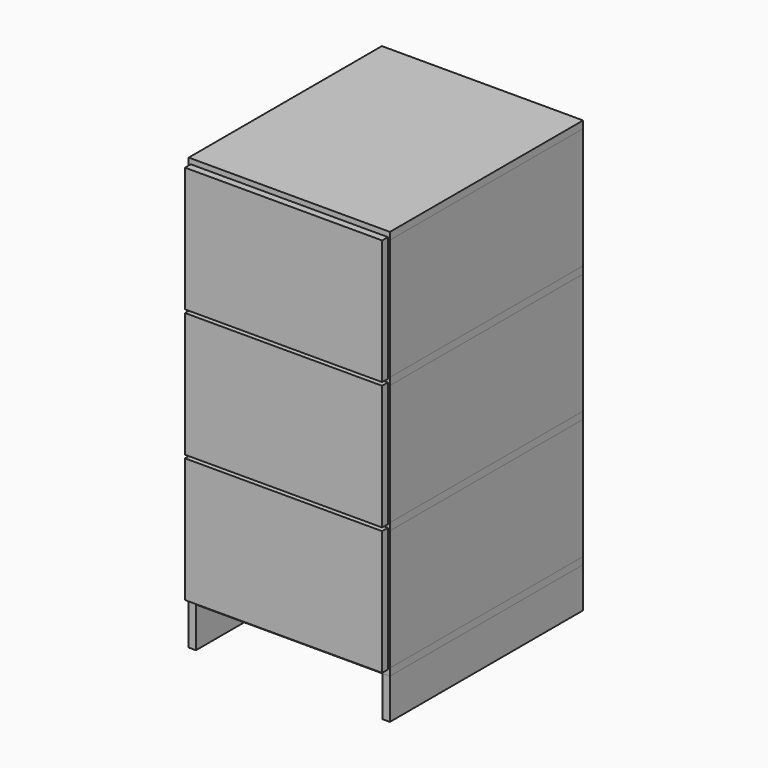
from build123d import *

# Parameters (mm, degrees)
BOX006_W       = 18
BOX006_H       = 600
BOX006_DEPTH   = 100
BOX007_W       = 18
BOX007_H       = 600
BOX007_DEPTH   = 300
BOX008_W       = 18
BOX008_H       = 600
BOX008_DEPTH   = 300
BOX009_W       = 18
BOX009_H       = 600
BOX009_DEPTH   = 300
BOX010_W       = 18
BOX010_H       = 600
BOX010_DEPTH   = 100
BOX011_W       = 18
BOX011_H       = 600
BOX011_DEPTH   = 300
BOX012_W       = 18
BOX012_H       = 600
BOX012_DEPTH   = 300
BOX013_W       = 18
BOX013_H       = 600
BOX013_DEPTH   = 300
BOX018_W       = 464
BOX018_H       = 18
BOX018_DEPTH   = 300
BOX019_W       = 464
BOX019_H       = 18
BOX019_DEPTH   = 300
BOX020_W       = 464
BOX020_H       = 18
BOX020_DEPTH   = 300
BOX023_W       = 500
BOX023_H       = 600
BOX023_DEPTH   = 18
BOX024_W       = 500
BOX024_H       = 600
BOX024_DEPTH   = 18
BOX025_W       = 500
BOX025_H       = 600
BOX025_DEPTH   = 18
BOX026_W       = 500
BOX026_H       = 600
BOX026_DEPTH   = 18
BOX027_W       = 490
BOX027_H       = 18
BOX027_DEPTH   = 310
BOX028_W       = 490
BOX028_H       = 18
BOX028_DEPTH   = 310
BOX029_W       = 490
BOX029_H       = 18
BOX029_DEPTH   = 310
DOWEL_R        = 2.25
DOWEL_DEPTH    = 40
DOWEL001_R     = 2.25
DOWEL001_DEPTH = 40
DOWEL002_R     = 2.25
DOWEL002_DEPTH = 40
DOWEL003_R     = 2.25
DOWEL003_DEPTH = 40
DOWEL004_R     = 2.25
DOWEL004_DEPTH = 40
DOWEL005_R     = 2.25
DOWEL005_DEPTH = 40
DOWEL006_R     = 2.25
DOWEL006_DEPTH = 40
DOWEL007_R     = 2.25
DOWEL007_DEPTH = 40
DOWEL008_R     = 2.25
DOWEL008_DEPTH = 40
DOWEL009_R     = 2.25
DOWEL009_DEPTH = 40
DOWEL010_R     = 2.25
DOWEL010_DEPTH = 40
DOWEL011_R     = 2.25
DOWEL011_DEPTH = 40
DOWEL012_R     = 2.25
DOWEL012_DEPTH = 40
DOWEL013_R     = 2.25
DOWEL013_DEPTH = 40
DOWEL014_R     = 2.25
DOWEL014_DEPTH = 40
DOWEL015_R     = 2.25
DOWEL015_DEPTH = 40
DOWEL016_R     = 2.25
DOWEL016_DEPTH = 40
DOWEL017_R     = 2.25
DOWEL017_DEPTH = 40
DOWEL018_R     = 2.25
DOWEL018_DEPTH = 40
DOWEL019_R     = 2.25
DOWEL019_DEPTH = 40
DOWEL020_R     = 2.25
DOWEL020_DEPTH = 40
DOWEL021_R     = 2.25
DOWEL021_DEPTH = 40
DOWEL022_R     = 2.25
DOWEL022_DEPTH = 40
DOWEL023_R     = 2.25
DOWEL023_DEPTH = 40
DOWEL024_R     = 2.25
DOWEL024_DEPTH = 40
DOWEL025_R     = 2.25
DOWEL025_DEPTH = 40
DOWEL026_R     = 2.25
DOWEL026_DEPTH = 40
DOWEL027_R     = 2.25
DOWEL027_DEPTH = 40
DOWEL028_R     = 2.25
DOWEL028_DEPTH = 40
DOWEL029_R     = 2.25
DOWEL029_DEPTH = 40
DOWEL030_R     = 2.25
DOWEL030_DEPTH = 40
DOWEL031_R     = 2.25
DOWEL031_DEPTH = 40
DOWEL032_R     = 2.25
DOWEL032_DEPTH = 40
DOWEL033_R     = 2.25
DOWEL033_DEPTH = 40
DOWEL034_R     = 2.25
DOWEL034_DEPTH = 40
DOWEL035_R     = 2.25
DOWEL035_DEPTH = 40
DOWEL036_R     = 4
DOWEL036_DEPTH = 35
DOWEL037_R     = 4
DOWEL037_DEPTH = 35
DOWEL038_R     = 4
DOWEL038_DEPTH = 35
DOWEL039_R     = 4
DOWEL039_DEPTH = 35
DOWEL040_R     = 4
DOWEL040_DEPTH = 35
DOWEL041_R     = 4
DOWEL041_DEPTH = 35
DOWEL042_R     = 4
DOWEL042_DEPTH = 35
DOWEL043_R     = 4
DOWEL043_DEPTH = 35
DOWEL044_R     = 4
DOWEL044_DEPTH = 35
DOWEL045_R     = 4
DOWEL045_DEPTH = 35
DOWEL046_R     = 4
DOWEL046_DEPTH = 35
DOWEL047_R     = 4
DOWEL047_DEPTH = 35
DOWEL048_R     = 4
DOWEL048_DEPTH = 35
DOWEL049_R     = 4
DOWEL049_DEPTH = 35
DOWEL050_R     = 4
DOWEL050_DEPTH = 35
DOWEL051_R     = 4
DOWEL051_DEPTH = 35
DOWEL052_R     = 4
DOWEL052_DEPTH = 35
DOWEL053_R     = 4
DOWEL053_DEPTH = 35


with BuildPart() as foot_l:
    # Box006 → Box006 (new body)
    with BuildSketch(Plane.XY):
        with Locations((9, 300)):
            Rectangle(BOX006_W, BOX006_H)
    extrude(amount=BOX006_DEPTH)


with BuildPart() as side_l1:
    # Box007 → Box007 (new body)
    with BuildSketch(Plane.XY.offset(118)):
        with Locations((9, 300)):
            Rectangle(BOX007_W, BOX007_H)
    extrude(amount=BOX007_DEPTH)


with BuildPart() as side_l2:
    # Box008 → Box008 (new body)
    with BuildSketch(Plane.XY.offset(436)):
        with Locations((9, 300)):
            Rectangle(BOX008_W, BOX008_H)
    extrude(amount=BOX008_DEPTH)


with BuildPart() as side_l3:
    # Box009 → Box009 (new body)
    with BuildSketch(Plane.XY.offset(754)):
        with Locations((9, 300)):
            Rectangle(BOX009_W, BOX009_H)
    extrude(amount=BOX009_DEPTH)


with BuildPart() as foot_r:
    # Box010 → Box010 (new body)
    with BuildSketch(Plane(origin=(482, 0, 0), x_dir=(1, 0, 0), z_dir=(0, 0, 1))):
        with Locations((9, 300)):
            Rectangle(BOX010_W, BOX010_H)
    extrude(amount=BOX010_DEPTH)


with BuildPart() as side_r1:
    # Box011 → Box011 (new body)
    with BuildSketch(Plane(origin=(482, 0, 118), x_dir=(1, 0, 0), z_dir=(0, 0, 1))):
        with Locations((9, 300)):
            Rectangle(BOX011_W, BOX011_H)
    extrude(amount=BOX011_DEPTH)


with BuildPart() as side_r2:
    # Box012 → Box012 (new body)
    with BuildSketch(Plane(origin=(482, 0, 436), x_dir=(1, 0, 0), z_dir=(0, 0, 1))):
        with Locations((9, 300)):
            Rectangle(BOX012_W, BOX012_H)
    extrude(amount=BOX012_DEPTH)


with BuildPart() as side_r3:
    # Box013 → Box013 (new body)
    with BuildSketch(Plane(origin=(482, 0, 754), x_dir=(1, 0, 0), z_dir=(0, 0, 1))):
        with Locations((9, 300)):
            Rectangle(BOX013_W, BOX013_H)
    extrude(amount=BOX013_DEPTH)


with BuildPart() as box018:
    # Box018 → Box018 (new body)
    with BuildSketch(Plane(origin=(18, 582, 118), x_dir=(1, 0, 0), z_dir=(0, 0, 1))):
        with Locations((232, 9)):
            Rectangle(BOX018_W, BOX018_H)
    extrude(amount=BOX018_DEPTH)


with BuildPart() as box019:
    # Box019 → Box019 (new body)
    with BuildSketch(Plane(origin=(18, 582, 436), x_dir=(1, 0, 0), z_dir=(0, 0, 1))):
        with Locations((232, 9)):
            Rectangle(BOX019_W, BOX019_H)
    extrude(amount=BOX019_DEPTH)


with BuildPart() as box020:
    # Box020 → Box020 (new body)
    with BuildSketch(Plane(origin=(18, 582, 754), x_dir=(1, 0, 0), z_dir=(0, 0, 1))):
        with Locations((232, 9)):
            Rectangle(BOX020_W, BOX020_H)
    extrude(amount=BOX020_DEPTH)


with BuildPart() as box023:
    # Box023 → Box023 (new body)
    with BuildSketch(Plane.XY.offset(100)):
        with Locations((250, 300)):
            Rectangle(BOX023_W, BOX023_H)
    extrude(amount=BOX023_DEPTH)


with BuildPart() as box024:
    # Box024 → Box024 (new body)
    with BuildSketch(Plane.XY.offset(418)):
        with Locations((250, 300)):
            Rectangle(BOX024_W, BOX024_H)
    extrude(amount=BOX024_DEPTH)


with BuildPart() as box025:
    # Box025 → Box025 (new body)
    with BuildSketch(Plane.XY.offset(736)):
        with Locations((250, 300)):
            Rectangle(BOX025_W, BOX025_H)
    extrude(amount=BOX025_DEPTH)


with BuildPart() as box026:
    # Box026 → Box026 (new body)
    with BuildSketch(Plane.XY.offset(1054)):
        with Locations((250, 300)):
            Rectangle(BOX026_W, BOX026_H)
    extrude(amount=BOX026_DEPTH)


with BuildPart() as box027:
    # Box027 → Box027 (new body)
    with BuildSketch(Plane(origin=(5, -18, 113), x_dir=(1, 0, 0), z_dir=(0, 0, 1))):
        with Locations((245, 9)):
            Rectangle(BOX027_W, BOX027_H)
    extrude(amount=BOX027_DEPTH)


with BuildPart() as box028:
    # Box028 → Box028 (new body)
    with BuildSketch(Plane(origin=(5, -18, 431), x_dir=(1, 0, 0), z_dir=(0, 0, 1))):
        with Locations((245, 9)):
            Rectangle(BOX028_W, BOX028_H)
    extrude(amount=BOX028_DEPTH)


with BuildPart() as box029:
    # Box029 → Box029 (new body)
    with BuildSketch(Plane(origin=(5, -18, 749), x_dir=(1, 0, 0), z_dir=(0, 0, 1))):
        with Locations((245, 9)):
            Rectangle(BOX029_W, BOX029_H)
    extrude(amount=BOX029_DEPTH)


with BuildPart() as screw_4_5_x_40_mm:
    # Dowel → Dowel (new body)
    with BuildSketch(Plane(origin=(457, 591, 368), x_dir=(0, 0, -1), z_dir=(1, 0, 0))):
        Circle(DOWEL_R)
    extrude(amount=DOWEL_DEPTH)


with BuildPart() as dowel001:
    # Dowel001 → Dowel001 (new body)
    with BuildSketch(Plane(origin=(457, 591, 336), x_dir=(0, 0, -1), z_dir=(1, 0, 0))):
        Circle(DOWEL001_R)
    extrude(amount=DOWEL001_DEPTH)


with BuildPart() as dowel002:
    # Dowel002 → Dowel002 (new body)
    with BuildSketch(Plane(origin=(457, 591, 168), x_dir=(0, 0, -1), z_dir=(1, 0, 0))):
        Circle(DOWEL002_R)
    extrude(amount=DOWEL002_DEPTH)


with BuildPart() as dowel003:
    # Dowel003 → Dowel003 (new body)
    with BuildSketch(Plane(origin=(457, 591, 200), x_dir=(0, 0, -1), z_dir=(1, 0, 0))):
        Circle(DOWEL003_R)
    extrude(amount=DOWEL003_DEPTH)


with BuildPart() as dowel004:
    # Dowel004 → Dowel004 (new body)
    with BuildSketch(Plane(origin=(457, 591, 686), x_dir=(0, 0, -1), z_dir=(1, 0, 0))):
        Circle(DOWEL004_R)
    extrude(amount=DOWEL004_DEPTH)


with BuildPart() as dowel005:
    # Dowel005 → Dowel005 (new body)
    with BuildSketch(Plane(origin=(457, 591, 654), x_dir=(0, 0, -1), z_dir=(1, 0, 0))):
        Circle(DOWEL005_R)
    extrude(amount=DOWEL005_DEPTH)


with BuildPart() as dowel006:
    # Dowel006 → Dowel006 (new body)
    with BuildSketch(Plane(origin=(457, 591, 486), x_dir=(0, 0, -1), z_dir=(1, 0, 0))):
        Circle(DOWEL006_R)
    extrude(amount=DOWEL006_DEPTH)


with BuildPart() as dowel007:
    # Dowel007 → Dowel007 (new body)
    with BuildSketch(Plane(origin=(457, 591, 518), x_dir=(0, 0, -1), z_dir=(1, 0, 0))):
        Circle(DOWEL007_R)
    extrude(amount=DOWEL007_DEPTH)


with BuildPart() as dowel008:
    # Dowel008 → Dowel008 (new body)
    with BuildSketch(Plane(origin=(457, 591, 1004), x_dir=(0, 0, -1), z_dir=(1, 0, 0))):
        Circle(DOWEL008_R)
    extrude(amount=DOWEL008_DEPTH)


with BuildPart() as dowel009:
    # Dowel009 → Dowel009 (new body)
    with BuildSketch(Plane(origin=(457, 591, 972), x_dir=(0, 0, -1), z_dir=(1, 0, 0))):
        Circle(DOWEL009_R)
    extrude(amount=DOWEL009_DEPTH)


with BuildPart() as dowel010:
    # Dowel010 → Dowel010 (new body)
    with BuildSketch(Plane(origin=(457, 591, 804), x_dir=(0, 0, -1), z_dir=(1, 0, 0))):
        Circle(DOWEL010_R)
    extrude(amount=DOWEL010_DEPTH)


with BuildPart() as dowel011:
    # Dowel011 → Dowel011 (new body)
    with BuildSketch(Plane(origin=(457, 591, 836), x_dir=(0, 0, -1), z_dir=(1, 0, 0))):
        Circle(DOWEL011_R)
    extrude(amount=DOWEL011_DEPTH)


with BuildPart() as dowel012:
    # Dowel012 → Dowel012 (new body)
    with BuildSketch(Plane(origin=(43, 591, 368), x_dir=(0, 0, 1), z_dir=(-1, 0, 0))):
        Circle(DOWEL012_R)
    extrude(amount=DOWEL012_DEPTH)


with BuildPart() as dowel013:
    # Dowel013 → Dowel013 (new body)
    with BuildSketch(Plane(origin=(43, 591, 336), x_dir=(0, 0, 1), z_dir=(-1, 0, 0))):
        Circle(DOWEL013_R)
    extrude(amount=DOWEL013_DEPTH)


with BuildPart() as dowel014:
    # Dowel014 → Dowel014 (new body)
    with BuildSketch(Plane(origin=(43, 591, 168), x_dir=(0, 0, 1), z_dir=(-1, 0, 0))):
        Circle(DOWEL014_R)
    extrude(amount=DOWEL014_DEPTH)


with BuildPart() as dowel015:
    # Dowel015 → Dowel015 (new body)
    with BuildSketch(Plane(origin=(43, 591, 200), x_dir=(0, 0, 1), z_dir=(-1, 0, 0))):
        Circle(DOWEL015_R)
    extrude(amount=DOWEL015_DEPTH)


with BuildPart() as dowel016:
    # Dowel016 → Dowel016 (new body)
    with BuildSketch(Plane(origin=(43, 591, 686), x_dir=(0, 0, 1), z_dir=(-1, 0, 0))):
        Circle(DOWEL016_R)
    extrude(amount=DOWEL016_DEPTH)


with BuildPart() as dowel017:
    # Dowel017 → Dowel017 (new body)
    with BuildSketch(Plane(origin=(43, 591, 654), x_dir=(0, 0, 1), z_dir=(-1, 0, 0))):
        Circle(DOWEL017_R)
    extrude(amount=DOWEL017_DEPTH)


with BuildPart() as dowel018:
    # Dowel018 → Dowel018 (new body)
    with BuildSketch(Plane(origin=(43, 591, 486), x_dir=(0, 0, 1), z_dir=(-1, 0, 0))):
        Circle(DOWEL018_R)
    extrude(amount=DOWEL018_DEPTH)


with BuildPart() as dowel019:
    # Dowel019 → Dowel019 (new body)
    with BuildSketch(Plane(origin=(43, 591, 518), x_dir=(0, 0, 1), z_dir=(-1, 0, 0))):
        Circle(DOWEL019_R)
    extrude(amount=DOWEL019_DEPTH)


with BuildPart() as dowel020:
    # Dowel020 → Dowel020 (new body)
    with BuildSketch(Plane(origin=(43, 591, 1004), x_dir=(0, 0, 1), z_dir=(-1, 0, 0))):
        Circle(DOWEL020_R)
    extrude(amount=DOWEL020_DEPTH)


with BuildPart() as dowel021:
    # Dowel021 → Dowel021 (new body)
    with BuildSketch(Plane(origin=(43, 591, 972), x_dir=(0, 0, 1), z_dir=(-1, 0, 0))):
        Circle(DOWEL021_R)
    extrude(amount=DOWEL021_DEPTH)


with BuildPart() as dowel022:
    # Dowel022 → Dowel022 (new body)
    with BuildSketch(Plane(origin=(43, 591, 804), x_dir=(0, 0, 1), z_dir=(-1, 0, 0))):
        Circle(DOWEL022_R)
    extrude(amount=DOWEL022_DEPTH)


with BuildPart() as dowel023:
    # Dowel023 → Dowel023 (new body)
    with BuildSketch(Plane(origin=(43, 591, 836), x_dir=(0, 0, 1), z_dir=(-1, 0, 0))):
        Circle(DOWEL023_R)
    extrude(amount=DOWEL023_DEPTH)


with BuildPart() as dowel024:
    # Dowel024 → Dowel024 (new body)
    with BuildSketch(Plane(origin=(491, 550, 143), x_dir=(1, 0, 0), z_dir=(0, 0, -1))):
        Circle(DOWEL024_R)
    extrude(amount=DOWEL024_DEPTH)


with BuildPart() as dowel025:
    # Dowel025 → Dowel025 (new body)
    with BuildSketch(Plane(origin=(491, 50, 143), x_dir=(1, 0, 0), z_dir=(0, 0, -1))):
        Circle(DOWEL025_R)
    extrude(amount=DOWEL025_DEPTH)


with BuildPart() as dowel026:
    # Dowel026 → Dowel026 (new body)
    with BuildSketch(Plane(origin=(9, 550, 143), x_dir=(1, 0, 0), z_dir=(0, 0, -1))):
        Circle(DOWEL026_R)
    extrude(amount=DOWEL026_DEPTH)


with BuildPart() as dowel027:
    # Dowel027 → Dowel027 (new body)
    with BuildSketch(Plane(origin=(9, 50, 143), x_dir=(1, 0, 0), z_dir=(0, 0, -1))):
        Circle(DOWEL027_R)
    extrude(amount=DOWEL027_DEPTH)


with BuildPart() as dowel028:
    # Dowel028 → Dowel028 (new body)
    with BuildSketch(Plane(origin=(491, 550, 461), x_dir=(1, 0, 0), z_dir=(0, 0, -1))):
        Circle(DOWEL028_R)
    extrude(amount=DOWEL028_DEPTH)


with BuildPart() as dowel029:
    # Dowel029 → Dowel029 (new body)
    with BuildSketch(Plane(origin=(491, 50, 461), x_dir=(1, 0, 0), z_dir=(0, 0, -1))):
        Circle(DOWEL029_R)
    extrude(amount=DOWEL029_DEPTH)


with BuildPart() as dowel030:
    # Dowel030 → Dowel030 (new body)
    with BuildSketch(Plane(origin=(9, 550, 461), x_dir=(1, 0, 0), z_dir=(0, 0, -1))):
        Circle(DOWEL030_R)
    extrude(amount=DOWEL030_DEPTH)


with BuildPart() as dowel031:
    # Dowel031 → Dowel031 (new body)
    with BuildSketch(Plane(origin=(9, 50, 461), x_dir=(1, 0, 0), z_dir=(0, 0, -1))):
        Circle(DOWEL031_R)
    extrude(amount=DOWEL031_DEPTH)


with BuildPart() as dowel032:
    # Dowel032 → Dowel032 (new body)
    with BuildSketch(Plane(origin=(491, 550, 779), x_dir=(1, 0, 0), z_dir=(0, 0, -1))):
        Circle(DOWEL032_R)
    extrude(amount=DOWEL032_DEPTH)


with BuildPart() as dowel033:
    # Dowel033 → Dowel033 (new body)
    with BuildSketch(Plane(origin=(491, 50, 779), x_dir=(1, 0, 0), z_dir=(0, 0, -1))):
        Circle(DOWEL033_R)
    extrude(amount=DOWEL033_DEPTH)


with BuildPart() as dowel034:
    # Dowel034 → Dowel034 (new body)
    with BuildSketch(Plane(origin=(9, 550, 779), x_dir=(1, 0, 0), z_dir=(0, 0, -1))):
        Circle(DOWEL034_R)
    extrude(amount=DOWEL034_DEPTH)


with BuildPart() as dowel035:
    # Dowel035 → Dowel035 (new body)
    with BuildSketch(Plane(origin=(9, 50, 779), x_dir=(1, 0, 0), z_dir=(0, 0, -1))):
        Circle(DOWEL035_R)
    extrude(amount=DOWEL035_DEPTH)


with BuildPart() as dowel_8_x_35_mm:
    # Dowel036 → Dowel036 (new body)
    with BuildSketch(Plane(origin=(491, 450, 1034), x_dir=(1, 0, 0), z_dir=(0, 0, 1))):
        Circle(DOWEL036_R)
    extrude(amount=DOWEL036_DEPTH)


with BuildPart() as dowel037:
    # Dowel037 → Dowel037 (new body)
    with BuildSketch(Plane(origin=(491, 150, 1034), x_dir=(1, 0, 0), z_dir=(0, 0, 1))):
        Circle(DOWEL037_R)
    extrude(amount=DOWEL037_DEPTH)


with BuildPart() as dowel038:
    # Dowel038 → Dowel038 (new body)
    with BuildSketch(Plane(origin=(332, 591, 1034), x_dir=(1, 0, 0), z_dir=(0, 0, 1))):
        Circle(DOWEL038_R)
    extrude(amount=DOWEL038_DEPTH)


with BuildPart() as dowel039:
    # Dowel039 → Dowel039 (new body)
    with BuildSketch(Plane(origin=(168, 591, 1034), x_dir=(1, 0, 0), z_dir=(0, 0, 1))):
        Circle(DOWEL039_R)
    extrude(amount=DOWEL039_DEPTH)


with BuildPart() as dowel040:
    # Dowel040 → Dowel040 (new body)
    with BuildSketch(Plane(origin=(9, 450, 1034), x_dir=(1, 0, 0), z_dir=(0, 0, 1))):
        Circle(DOWEL040_R)
    extrude(amount=DOWEL040_DEPTH)


with BuildPart() as dowel041:
    # Dowel041 → Dowel041 (new body)
    with BuildSketch(Plane(origin=(9, 150, 1034), x_dir=(1, 0, 0), z_dir=(0, 0, 1))):
        Circle(DOWEL041_R)
    extrude(amount=DOWEL041_DEPTH)


with BuildPart() as dowel042:
    # Dowel042 → Dowel042 (new body)
    with BuildSketch(Plane(origin=(491, 450, 716), x_dir=(1, 0, 0), z_dir=(0, 0, 1))):
        Circle(DOWEL042_R)
    extrude(amount=DOWEL042_DEPTH)


with BuildPart() as dowel043:
    # Dowel043 → Dowel043 (new body)
    with BuildSketch(Plane(origin=(491, 150, 716), x_dir=(1, 0, 0), z_dir=(0, 0, 1))):
        Circle(DOWEL043_R)
    extrude(amount=DOWEL043_DEPTH)


with BuildPart() as dowel044:
    # Dowel044 → Dowel044 (new body)
    with BuildSketch(Plane(origin=(332, 591, 716), x_dir=(1, 0, 0), z_dir=(0, 0, 1))):
        Circle(DOWEL044_R)
    extrude(amount=DOWEL044_DEPTH)


with BuildPart() as dowel045:
    # Dowel045 → Dowel045 (new body)
    with BuildSketch(Plane(origin=(168, 591, 716), x_dir=(1, 0, 0), z_dir=(0, 0, 1))):
        Circle(DOWEL045_R)
    extrude(amount=DOWEL045_DEPTH)


with BuildPart() as dowel046:
    # Dowel046 → Dowel046 (new body)
    with BuildSketch(Plane(origin=(9, 450, 716), x_dir=(1, 0, 0), z_dir=(0, 0, 1))):
        Circle(DOWEL046_R)
    extrude(amount=DOWEL046_DEPTH)


with BuildPart() as dowel047:
    # Dowel047 → Dowel047 (new body)
    with BuildSketch(Plane(origin=(9, 150, 716), x_dir=(1, 0, 0), z_dir=(0, 0, 1))):
        Circle(DOWEL047_R)
    extrude(amount=DOWEL047_DEPTH)


with BuildPart() as dowel048:
    # Dowel048 → Dowel048 (new body)
    with BuildSketch(Plane(origin=(491, 450, 398), x_dir=(1, 0, 0), z_dir=(0, 0, 1))):
        Circle(DOWEL048_R)
    extrude(amount=DOWEL048_DEPTH)


with BuildPart() as dowel049:
    # Dowel049 → Dowel049 (new body)
    with BuildSketch(Plane(origin=(491, 150, 398), x_dir=(1, 0, 0), z_dir=(0, 0, 1))):
        Circle(DOWEL049_R)
    extrude(amount=DOWEL049_DEPTH)


with BuildPart() as dowel050:
    # Dowel050 → Dowel050 (new body)
    with BuildSketch(Plane(origin=(332, 591, 398), x_dir=(1, 0, 0), z_dir=(0, 0, 1))):
        Circle(DOWEL050_R)
    extrude(amount=DOWEL050_DEPTH)


with BuildPart() as dowel051:
    # Dowel051 → Dowel051 (new body)
    with BuildSketch(Plane(origin=(168, 591, 398), x_dir=(1, 0, 0), z_dir=(0, 0, 1))):
        Circle(DOWEL051_R)
    extrude(amount=DOWEL051_DEPTH)


with BuildPart() as dowel052:
    # Dowel052 → Dowel052 (new body)
    with BuildSketch(Plane(origin=(9, 450, 398), x_dir=(1, 0, 0), z_dir=(0, 0, 1))):
        Circle(DOWEL052_R)
    extrude(amount=DOWEL052_DEPTH)


with BuildPart() as dowel053:
    # Dowel053 → Dowel053 (new body)
    with BuildSketch(Plane(origin=(9, 150, 398), x_dir=(1, 0, 0), z_dir=(0, 0, 1))):
        Circle(DOWEL053_R)
    extrude(amount=DOWEL053_DEPTH)


solid = Compound([foot_l.part, side_l1.part, side_l2.part, side_l3.part, foot_r.part, side_r1.part, side_r2.part, side_r3.part, box018.part, box019.part, box020.part, box023.part, box024.part, box025.part, box026.part, box027.part, box028.part, box029.part, screw_4_5_x_40_mm.part, dowel001.part, dowel002.part, dowel003.part, dowel004.part, dowel005.part, dowel006.part, dowel007.part, dowel008.part, dowel009.part, dowel010.part, dowel011.part, dowel012.part, dowel013.part, dowel014.part, dowel015.part, dowel016.part, dowel017.part, dowel018.part, dowel019.part, dowel020.part, dowel021.part, dowel022.part, dowel023.part, dowel024.part, dowel025.part, dowel026.part, dowel027.part, dowel028.part, dowel029.part, dowel030.part, dowel031.part, dowel032.part, dowel033.part, dowel034.part, dowel035.part, dowel_8_x_35_mm.part, dowel037.part, dowel038.part, dowel039.part, dowel040.part, dowel041.part, dowel042.part, dowel043.part, dowel044.part, dowel045.part, dowel046.part, dowel047.part, dowel048.part, dowel049.part, dowel050.part, dowel051.part, dowel052.part, dowel053.part])
